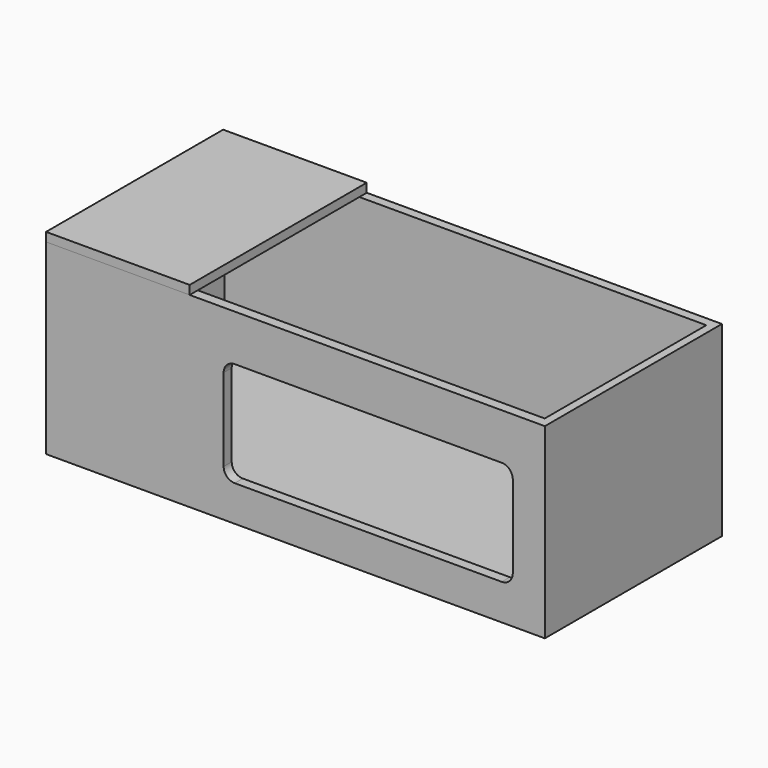
from build123d import *

# Parameters (mm, degrees)
F0_W     = 225.119262
F0_H     = 84.315368
F1_DEPTH = 99.9
F2_W     = 217.388965
F2_H     = 91.173579
F3_DEPTH = 79.5
F4_W     = 64.813617
F4_H     = 99.9
F5_DEPTH = 4
F6_W     = 130.507961
F6_H     = 47.305657
F7_DEPTH = 25
F8_R     = 5


with BuildPart() as f1:
    # F0 (on Front) → F1 (new body)
    with BuildSketch(Plane.XZ):
        Rectangle(F0_W, F0_H)
    extrude(amount=F1_DEPTH)

    # F2 (on face) → F3 (cut)
    with BuildSketch(Plane.XY.offset(42.157684)):
        with Locations((0.162233, -49.763028)):
            Rectangle(F2_W, F2_H)
    extrude(amount=-F3_DEPTH, mode=Mode.SUBTRACT)

    # F6 (on face) → F7 (cut)
    with BuildSketch(Plane.XZ.offset(99.9)):
        with Locations((32.835692, -2.365282)):
            Rectangle(F6_W, F6_H)
    extrude(amount=-F7_DEPTH, mode=Mode.SUBTRACT)

    # F8
    f8_edges = [f1.edges().sort_by_distance(p)[0] for p in [
        (-32.418288, -97.624909, -26.018111),
        (-32.418288, -97.624909, 21.287546),
        (98.089673, -97.624909, 21.287546),
        (98.089673, -97.624909, -26.018111),
    ]]
    fillet(f8_edges, radius=F8_R)


with BuildPart() as f5:
    # F4 (on face) → F5 (new body)
    with BuildSketch(Plane.XY.offset(42.157684)):
        with Locations((-80.152822, -49.95)):
            Rectangle(F4_W, F4_H)
    extrude(amount=F5_DEPTH)


solid = Compound([f1.part, f5.part])
